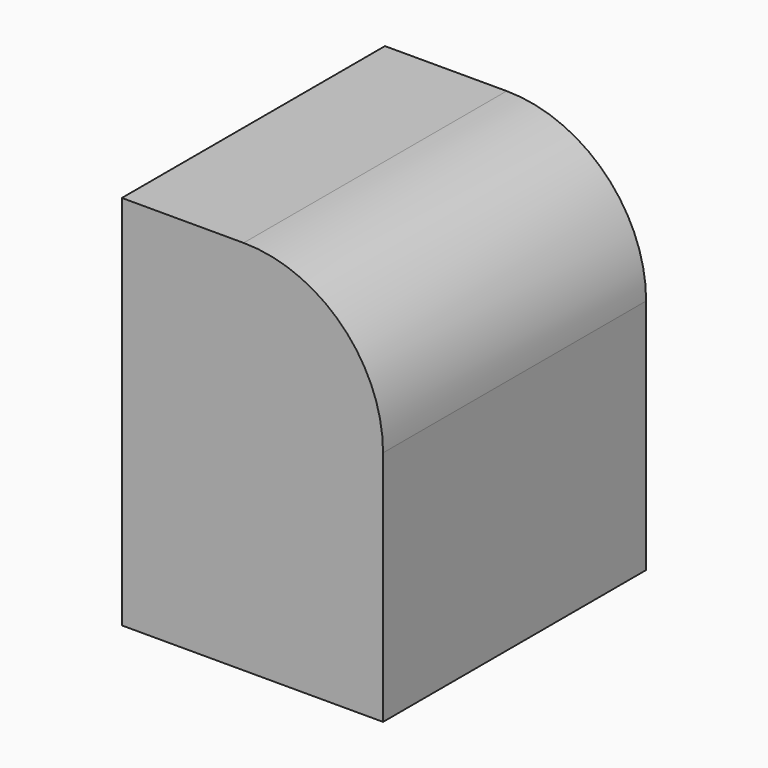
from build123d import *

# Parameters (mm, degrees)
F0_W     = 66.513043
F0_H     = 76.123111
F1_DEPTH = 52.832
F2_R     = 28.207671


with BuildPart() as f1:
    # F0 (on Right) → F1 (new body)
    with BuildSketch(Plane.YZ):
        with Locations((5.02715, 7.086754)):
            Rectangle(F0_W, F0_H)
    extrude(amount=F1_DEPTH)

    # F2
    f2_edges = [f1.edges().sort_by_distance(p)[0] for p in [
        (52.832, 5.027151, 45.148309),
    ]]
    fillet(f2_edges, radius=F2_R)


solid = f1.part
